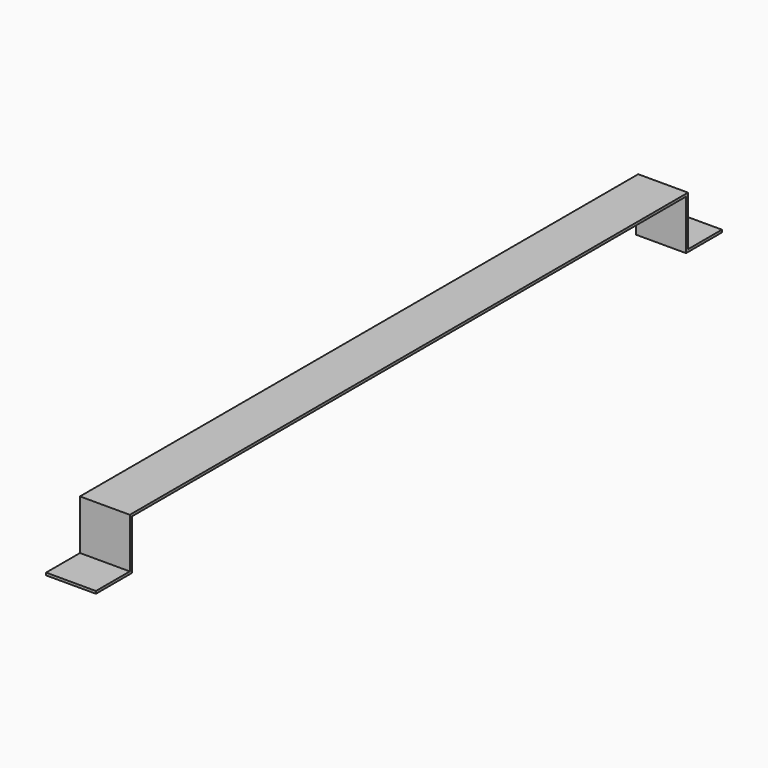
from build123d import *

# Parameters (mm, degrees)
F1_DEPTH = 50


with BuildPart() as f1:
    # F0 (on Right) → F1 (new body)
    with BuildSketch(Plane.YZ):
        Polygon((-392.5, 2.5), (-392.5, 0), (-347.5, 0), (-347.5, 50), (0, 50), (0, 52.5), (-350, 52.5), (-350, 2.5), align=None)
    extrude(amount=F1_DEPTH)

    # F2: F1 across plane


with BuildPart() as f1_1:
    add(f1.part)
    add(f1.part.mirror(Plane.XZ))


solid = f1_1.part
